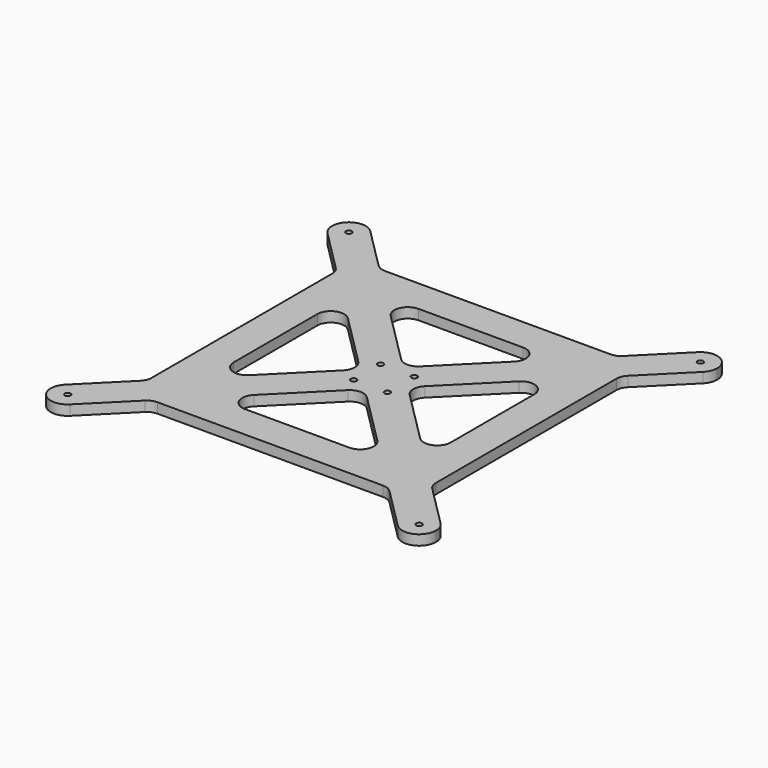
from build123d import *

# Parameters (mm, degrees)
F0_R     = 1.725
F1_DEPTH = 6
F2_R     = 8


with BuildPart() as f1:
    # F0 (on Top) → F1 (new body)
    with BuildSketch(Plane.XY):
        with BuildLine():
            ThreePointArc((-7.0710678119, 201.9289321881), (3.8268343237, 199.7612046749), (10, 209))
            ThreePointArc((10, 209), (9.2387953251, 212.8268343237), (7.0710678119, 216.0710678119))
            ThreePointArc((7.0710678119, 216.0710678119), (-7.0710678119, 216.0710678119), (-7.0710678119, 201.9289321881))
        make_face()
        with Locations((0, 209)):
            Circle(F0_R, mode=Mode.SUBTRACT)
        with BuildLine():
            ThreePointArc((7.0710678119, 216.0710678119), (9.2387953251, 212.8268343237), (10, 209))
            ThreePointArc((10, 209), (3.8268343237, 199.7612046749), (-7.0710678119, 201.9289321881))
            Line((-7.0710678119, 201.9289321881), (20, 174.8578643763))
            Line((20, 174.8578643763), (40, 154.8578643763))
            Line((40, 154.8578643763), (90.3578643763, 104.5))
            Line((90.3578643763, 104.5), (104.5, 118.6421356237))
            Line((104.5, 118.6421356237), (54.1421356237, 169))
            Line((54.1421356237, 169), (34.1421356237, 189))
            Line((34.1421356237, 189), (7.0710678119, 216.0710678119))
        make_face()
        with Locations((94.5, 114.5)):
            Circle(F0_R, mode=Mode.SUBTRACT)
        Polygon((174.8578643763, 189), (34.1421356237, 189), (54.1421356237, 169), (154.8578643763, 169), align=None)
        Polygon((40, 154.8578643763), (20, 174.8578643763), (20, 34.1421356237), (40, 54.1421356237), align=None)
        with BuildLine():
            Line((201.9289321881, 216.0710678119), (174.8578643763, 189))
            Line((174.8578643763, 189), (154.8578643763, 169))
            Line((154.8578643763, 169), (104.5, 118.6421356237))
            Line((104.5, 118.6421356237), (118.6421356237, 104.5))
            Line((118.6421356237, 104.5), (169, 154.8578643763))
            Line((169, 154.8578643763), (189, 174.8578643763))
            Line((189, 174.8578643763), (216.0710678119, 201.9289321881))
            ThreePointArc((216.0710678119, 201.9289321881), (201.9289321881, 201.9289321881), (201.9289321881, 216.0710678119))
        make_face()
        with Locations((114.5, 114.5)):
            Circle(F0_R, mode=Mode.SUBTRACT)
        with BuildLine():
            Line((40, 54.1421356237), (20, 34.1421356237))
            Line((20, 34.1421356237), (-7.0710678119, 7.0710678119))
            ThreePointArc((-7.0710678119, 7.0710678119), (3.8268343237, 9.2387953251), (10, 0))
            ThreePointArc((10, 0), (9.2387953251, -3.8268343237), (7.0710678119, -7.0710678119))
            Line((7.0710678119, -7.0710678119), (34.1421356237, 20))
            Line((34.1421356237, 20), (54.1421356237, 40))
            Line((54.1421356237, 40), (104.5, 90.3578643763))
            Line((104.5, 90.3578643763), (90.3578643763, 104.5))
            Line((90.3578643763, 104.5), (40, 54.1421356237))
        make_face()
        with Locations((94.5, 94.5)):
            Circle(F0_R, mode=Mode.SUBTRACT)
        with BuildLine():
            ThreePointArc((219, 209), (212.8268343237, 218.2387953251), (201.9289321881, 216.0710678119))
            ThreePointArc((201.9289321881, 216.0710678119), (201.9289321881, 201.9289321881), (216.0710678119, 201.9289321881))
            ThreePointArc((216.0710678119, 201.9289321881), (218.2387953251, 205.1731656763), (219, 209))
        make_face()
        with Locations((209, 209)):
            Circle(F0_R, mode=Mode.SUBTRACT)
        with BuildLine():
            ThreePointArc((10, 0), (3.8268343237, 9.2387953251), (-7.0710678119, 7.0710678119))
            ThreePointArc((-7.0710678119, 7.0710678119), (-7.0710678119, -7.0710678119), (7.0710678119, -7.0710678119))
            ThreePointArc((7.0710678119, -7.0710678119), (9.2387953251, -3.8268343237), (10, 0))
        make_face()
        Circle(F0_R, mode=Mode.SUBTRACT)
        with BuildLine():
            Line((169, 54.1421356237), (118.6421356237, 104.5))
            Line((118.6421356237, 104.5), (104.5, 90.3578643763))
            Line((104.5, 90.3578643763), (154.8578643763, 40))
            Line((154.8578643763, 40), (174.8578643763, 20))
            Line((174.8578643763, 20), (201.9289321881, -7.0710678119))
            ThreePointArc((201.9289321881, -7.0710678119), (201.9289321881, 7.0710678119), (216.0710678119, 7.0710678119))
            Line((216.0710678119, 7.0710678119), (189, 34.1421356237))
            Line((189, 34.1421356237), (169, 54.1421356237))
        make_face()
        with Locations((114.5, 94.5)):
            Circle(F0_R, mode=Mode.SUBTRACT)
        Polygon((169, 154.8578643763), (169, 54.1421356237), (189, 34.1421356237), (189, 174.8578643763), align=None)
        Polygon((174.8578643763, 20), (154.8578643763, 40), (54.1421356237, 40), (34.1421356237, 20), align=None)
        with BuildLine():
            ThreePointArc((219, 0), (218.2387953251, 3.8268343237), (216.0710678119, 7.0710678119))
            ThreePointArc((216.0710678119, 7.0710678119), (201.9289321881, 7.0710678119), (201.9289321881, -7.0710678119))
            ThreePointArc((201.9289321881, -7.0710678119), (212.8268343237, -9.2387953251), (219, 0))
        make_face()
        with Locations((209, 0)):
            Circle(F0_R, mode=Mode.SUBTRACT)
        Polygon((118.6421356237, 104.5), (104.5, 118.6421356237), (90.3578643763, 104.5), (104.5, 90.3578643763), align=None)
    extrude(amount=F1_DEPTH)

    # F2
    f2_edges = [f1.edges().sort_by_distance(p)[0] for p in [
        (20, 174.857864, 3),
        (20, 34.142136, 3),
        (34.142136, 20, 3),
        (174.857864, 20, 3),
        (189, 174.857864, 3),
        (189, 34.142136, 3),
        (174.857864, 189, 3),
        (34.142136, 189, 3),
        (104.5, 118.642136, 3),
        (154.857864, 169, 3),
        (90.357864, 104.5, 3),
        (104.5, 90.357864, 3),
        (169, 154.857864, 3),
        (54.142136, 169, 3),
        (118.642136, 104.5, 3),
        (40, 54.142136, 3),
        (54.142136, 40, 3),
        (154.857864, 40, 3),
        (169, 54.142136, 3),
        (40, 154.857864, 3),
    ]]
    fillet(f2_edges, radius=F2_R)


solid = f1.part
